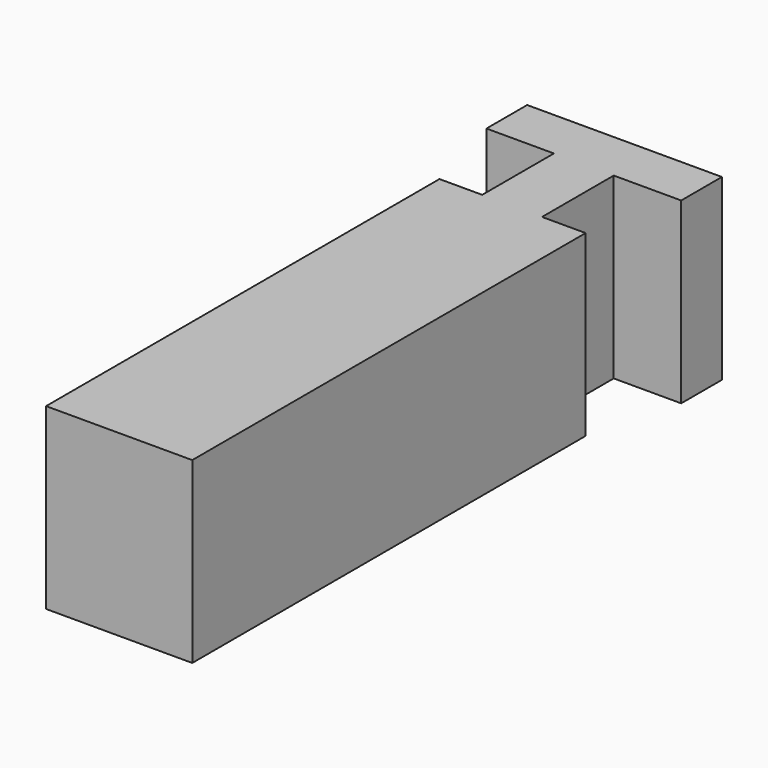
from build123d import *

# Parameters (mm, degrees)
F1_DEPTH = 25


with BuildPart() as f1:
    # F0 (on Top) → F1 (new body)
    with BuildSketch(Plane.XY):
        Polygon((10.229582, -0.854153), (4.12538, -0.854153), (-4.248491, -0.854153), (-10.229582, -0.854153), (-10.229582, -69.679364), (10.229582, -69.679364), align=None)
        Polygon((13.568254, 11.691391), (13.568254, 18.818088), (-13.691364, 18.818088), (-13.691364, 11.691391), (-4.248491, 11.691391), (-4.248491, -0.854153), (4.12538, -0.854153), (4.12538, 11.691391), align=None)
        Polygon((10.229582, -0.854153), (4.12538, -0.854153), (-4.248491, -0.854153), (-10.229582, -0.854153), (-10.229582, -69.679364), (10.229582, -69.679364), align=None)
    extrude(amount=F1_DEPTH)


solid = f1.part
